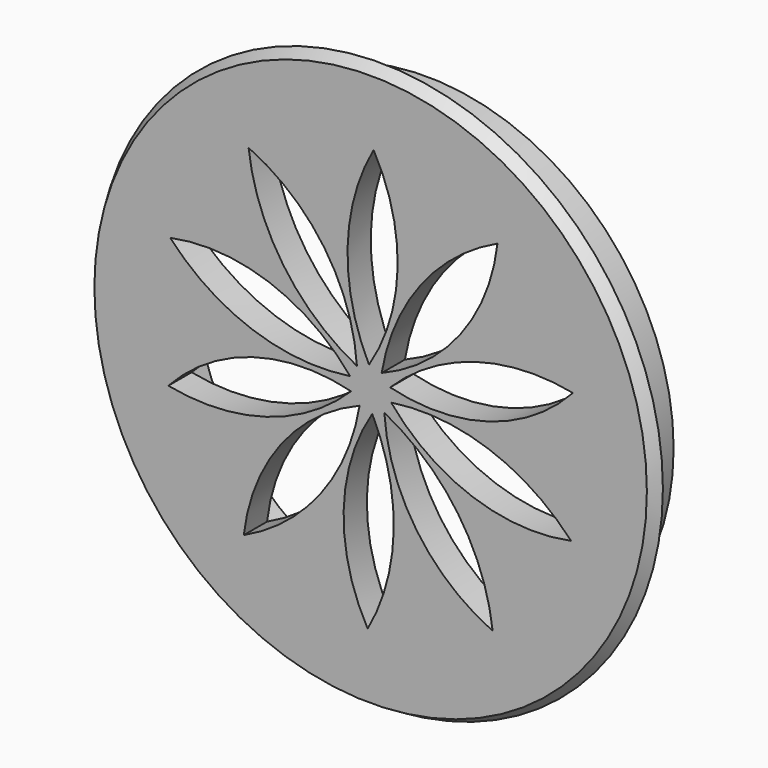
from build123d import *

# Parameters (mm, degrees)
F0_R     = 47.5
F1_DEPTH = 2
F1_TAPER = -30
F2_R     = 42.5
F2_R_2   = 40
F3_DEPTH = 10
F5_DEPTH = 25
F6_DEPTH = 3


with BuildPart() as f1:
    # F0 (on Front) → F1 (new body)
    with BuildSketch(Plane.XZ):
        Circle(F0_R)
    extrude(amount=-F1_DEPTH, taper=F1_TAPER)

    # F2 (on face) → F3 (join)
    with BuildSketch(Plane(origin=(0, 2, 0), x_dir=(-1, 0, 0), z_dir=(0, 1, 0))):
        Circle(F2_R)
        Circle(F2_R_2, mode=Mode.SUBTRACT)
    extrude(amount=F3_DEPTH)

    # F4 (on face) → F5 (cut)
    with BuildSketch(Plane(origin=(0, 2, 0), x_dir=(-1, 0, 0), z_dir=(0, 1, 0))):
        with BuildLine():
            ThreePointArc((20.9875792028, 29.753044393), (7.9449809873, 18.8289116609), (2.3533185627, 2.7609511341))
            ThreePointArc((2.3533185627, 2.7609511341), (15.0280319463, 13.9390568271), (20.9875792028, 29.753044393))
        make_face()
        with BuildLine():
            ThreePointArc((34.4677089509, 11.7345290116), (17.4949812297, 10.5629668651), (3.5267210693, 0.8504104431))
            ThreePointArc((3.5267210693, 0.8504104431), (20.3511052704, 2.4436783097), (34.4677089509, 11.7345290116))
        make_face()
        with BuildLine():
            ThreePointArc((34.7823453941, -10.7661776103), (20.3624932749, -1.7376722511), (3.3530359963, -1.3849581328))
            ThreePointArc((3.3530359963, -1.3849581328), (17.9007480898, -9.9851022645), (34.7823453941, -10.7661776103))
        make_face()
        with BuildLine():
            ThreePointArc((21.8113081051, -29.1545703139), (15.4522249847, -13.3745796286), (1.8986051383, -3.091319775))
            ThreePointArc((1.8986051383, -3.091319775), (8.612913563, -18.5999131547), (21.8113081051, -29.1545703139))
        make_face()
        with BuildLine():
            ThreePointArc((0.5090924591, -36.4069080851), (4.6397319522, -19.9028521733), (-0.2810283514, -3.6169023332))
            ThreePointArc((-0.2810283514, -3.6169023332), (-3.9647612027, -20.1101894077), (0.5090924591, -36.4069080851))
        make_face()
        with BuildLine():
            ThreePointArc((-20.9875792028, -29.753044393), (-7.9449809873, -18.8289116609), (-2.3533185627, -2.7609511341))
            ThreePointArc((-2.3533185627, -2.7609511341), (-15.0280319463, -13.9390568271), (-20.9875792028, -29.753044393))
        make_face()
        with BuildLine():
            ThreePointArc((-34.4677089509, -11.7345290116), (-17.4949812297, -10.5629668651), (-3.5267210693, -0.8504104431))
            ThreePointArc((-3.5267210693, -0.8504104431), (-20.3511052704, -2.4436783097), (-34.4677089509, -11.7345290116))
        make_face()
        with BuildLine():
            ThreePointArc((-21.8113081051, 29.1545703139), (-15.4522249847, 13.3745796286), (-1.8986051383, 3.091319775))
            ThreePointArc((-1.8986051383, 3.091319775), (-8.612913563, 18.5999131547), (-21.8113081051, 29.1545703139))
        make_face()
        with BuildLine():
            ThreePointArc((-0.5090924591, 36.4069080851), (-4.6397319522, 19.9028521733), (0.2810283514, 3.6169023332))
            ThreePointArc((0.2810283514, 3.6169023332), (3.9647612027, 20.1101894077), (-0.5090924591, 36.4069080851))
        make_face()
        with BuildLine():
            ThreePointArc((-34.7823453941, 10.7661776103), (-20.3624932749, 1.7376722511), (-3.3530359963, 1.3849581328))
            ThreePointArc((-3.3530359963, 1.3849581328), (-17.9007480898, 9.9851022645), (-34.7823453941, 10.7661776103))
        make_face()
    extrude(amount=-F5_DEPTH, mode=Mode.SUBTRACT)

    # F6 (add): a face of the model
    f6_faces = [f1.faces().sort_by_distance(p)[0] for p in [
        (0, 2, 0),
    ]]
    extrude(f6_faces, amount=F6_DEPTH)


solid = f1.part
